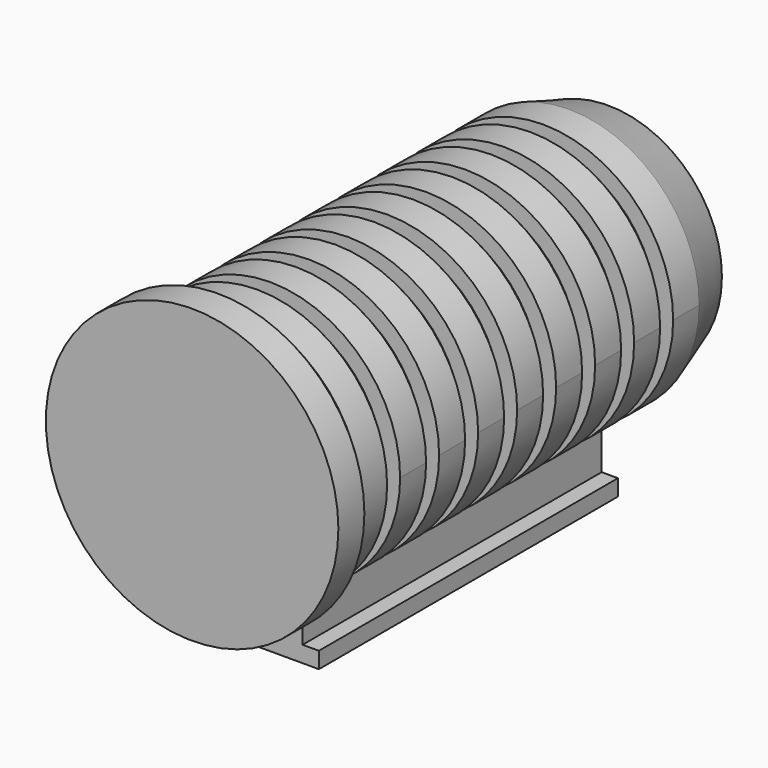
from build123d import *

# Parameters (mm, degrees)
CYLINDER010_R             = 40
CYLINDER010_DEPTH         = 10
CYLINDER008_R             = 40
CYLINDER008_DEPTH         = 10
CYLINDER009_R             = 40
CYLINDER009_DEPTH         = 10
CYLINDER007_R             = 40
CYLINDER007_DEPTH         = 10
CYLINDER006_R             = 40
CYLINDER006_DEPTH         = 10
CYLINDER005_R             = 40
CYLINDER005_DEPTH         = 10
CYLINDER078_R             = 40
CYLINDER078_DEPTH         = 10
CYLINDER081_R             = 40
CYLINDER081_DEPTH         = 10
CYLINDER080_R             = 45
CYLINDER080_DEPTH         = 10
CYLINDER079_R             = 40
CYLINDER079_DEPTH         = 10
BOX066_W                  = 20
BOX066_H                  = 15
BOX066_DEPTH              = 115
BOX067_W                  = 30
BOX067_H                  = 5
BOX067_DEPTH              = 115
FUSION043_PLACEMENT_ANGLE = 90


with BuildPart() as cylinder010:
    # Cylinder010 → Cylinder010 (new body)
    with BuildSketch(Plane.XY):
        Circle(CYLINDER010_R)
    extrude(amount=CYLINDER010_DEPTH)


with BuildPart() as middle007:
    # Cone010 → Cone010 (revolve)
    with BuildSketch(Plane(origin=(0, 0, 10), x_dir=(1, 0, 0), z_dir=(0, -1, 0))):
        Polygon((0, 0), (40, 0), (35, 5), (0, 5), align=None)
    revolve(axis=Axis((0, 0, 10), (0, 0, 1)))

    # Fusion044: union Cylinder010
    add(cylinder010.part)


with BuildPart() as middle007_1:
    # Fusion044 placement: moved
    add(middle007.part.moved(Location((85, -60, -23))))


with BuildPart() as cylinder008:
    # Cylinder008 → Cylinder008 (new body)
    with BuildSketch(Plane.XY):
        Circle(CYLINDER008_R)
    extrude(amount=CYLINDER008_DEPTH)


with BuildPart() as middle006:
    # Cone008 → Cone008 (revolve)
    with BuildSketch(Plane(origin=(0, 0, 10), x_dir=(1, 0, 0), z_dir=(0, -1, 0))):
        Polygon((0, 0), (40, 0), (35, 5), (0, 5), align=None)
    revolve(axis=Axis((0, 0, 10), (0, 0, 1)))

    # Fusion008: union Cylinder008
    add(cylinder008.part)


with BuildPart() as middle006_1:
    # Fusion008 placement: moved
    add(middle006.part.moved(Location((85, -60, -8))))


with BuildPart() as cylinder009:
    # Cylinder009 → Cylinder009 (new body)
    with BuildSketch(Plane.XY):
        Circle(CYLINDER009_R)
    extrude(amount=CYLINDER009_DEPTH)


with BuildPart() as middle002:
    # Cone009 → Cone009 (revolve)
    with BuildSketch(Plane(origin=(0, 0, 10), x_dir=(1, 0, 0), z_dir=(0, -1, 0))):
        Polygon((0, 0), (40, 0), (35, 5), (0, 5), align=None)
    revolve(axis=Axis((0, 0, 10), (0, 0, 1)))

    # Fusion047: union Cylinder009
    add(cylinder009.part)


with BuildPart() as middle002_1:
    # Fusion047 placement: moved
    add(middle002.part.moved(Location((85, -60, 52))))


with BuildPart() as cylinder007:
    # Cylinder007 → Cylinder007 (new body)
    with BuildSketch(Plane.XY):
        Circle(CYLINDER007_R)
    extrude(amount=CYLINDER007_DEPTH)


with BuildPart() as middle005:
    # Cone007 → Cone007 (revolve)
    with BuildSketch(Plane(origin=(0, 0, 10), x_dir=(1, 0, 0), z_dir=(0, -1, 0))):
        Polygon((0, 0), (40, 0), (35, 5), (0, 5), align=None)
    revolve(axis=Axis((0, 0, 10), (0, 0, 1)))

    # Fusion007: union Cylinder007
    add(cylinder007.part)


with BuildPart() as middle005_1:
    # Fusion007 placement: moved
    add(middle005.part.moved(Location((85, -60, 7))))


with BuildPart() as cylinder006:
    # Cylinder006 → Cylinder006 (new body)
    with BuildSketch(Plane.XY):
        Circle(CYLINDER006_R)
    extrude(amount=CYLINDER006_DEPTH)


with BuildPart() as middle004:
    # Cone006 → Cone006 (revolve)
    with BuildSketch(Plane(origin=(0, 0, 10), x_dir=(1, 0, 0), z_dir=(0, -1, 0))):
        Polygon((0, 0), (40, 0), (35, 5), (0, 5), align=None)
    revolve(axis=Axis((0, 0, 10), (0, 0, 1)))

    # Fusion046: union Cylinder006
    add(cylinder006.part)


with BuildPart() as middle004_1:
    # Fusion046 placement: moved
    add(middle004.part.moved(Location((85, -60, 22))))


with BuildPart() as cylinder005:
    # Cylinder005 → Cylinder005 (new body)
    with BuildSketch(Plane.XY):
        Circle(CYLINDER005_R)
    extrude(amount=CYLINDER005_DEPTH)


with BuildPart() as middle003:
    # Cone005 → Cone005 (revolve)
    with BuildSketch(Plane(origin=(0, 0, 10), x_dir=(1, 0, 0), z_dir=(0, -1, 0))):
        Polygon((0, 0), (40, 0), (35, 5), (0, 5), align=None)
    revolve(axis=Axis((0, 0, 10), (0, 0, 1)))

    # Fusion045: union Cylinder005
    add(cylinder005.part)


with BuildPart() as middle003_1:
    # Fusion045 placement: moved
    add(middle003.part.moved(Location((85, -60, 37))))


with BuildPart() as cylinder078:
    # Cylinder078 → Cylinder078 (new body)
    with BuildSketch(Plane.XY):
        Circle(CYLINDER078_R)
    extrude(amount=CYLINDER078_DEPTH)


with BuildPart() as middle008:
    # Cone004 → Cone004 (revolve)
    with BuildSketch(Plane(origin=(0, 0, 10), x_dir=(1, 0, 0), z_dir=(0, -1, 0))):
        Polygon((0, 0), (40, 0), (35, 5), (0, 5), align=None)
    revolve(axis=Axis((0, 0, 10), (0, 0, 1)))

    # Fusion004: union Cylinder078
    add(cylinder078.part)


with BuildPart() as middle008_1:
    # Fusion004 placement: moved
    add(middle008.part.moved(Location((85, -60, -38))))


with BuildPart() as cylinder081:
    # Cylinder081 → Cylinder081 (new body)
    with BuildSketch(Plane.XY):
        Circle(CYLINDER081_R)
    extrude(amount=CYLINDER081_DEPTH)


with BuildPart() as middle001:
    # Cone003 → Cone003 (revolve)
    with BuildSketch(Plane(origin=(0, 0, 10), x_dir=(1, 0, 0), z_dir=(0, -1, 0))):
        Polygon((0, 0), (40, 0), (35, 5), (0, 5), align=None)
    revolve(axis=Axis((0, 0, 10), (0, 0, 1)))

    # Fusion003: union Cylinder081
    add(cylinder081.part)


with BuildPart() as middle001_1:
    # Fusion003 placement: moved
    add(middle001.part.moved(Location((85, -60, 67))))


with BuildPart() as cylinder080:
    # Cylinder080 → Cylinder080 (new body)
    with BuildSketch(Plane.XY):
        Circle(CYLINDER080_R)
    extrude(amount=CYLINDER080_DEPTH)


with BuildPart() as bottom:
    # Cone002 → Cone002 (revolve)
    with BuildSketch(Plane(origin=(0, 0, 10), x_dir=(1, 0, 0), z_dir=(0, -1, 0))):
        Polygon((0, 0), (45, 0), (40, 5), (0, 5), align=None)
    revolve(axis=Axis((0, 0, 10), (0, 0, 1)))

    # Fusion002: union Cylinder080
    add(cylinder080.part)


with BuildPart() as bottom_1:
    # Fusion002 placement: moved
    add(bottom.part.moved(Location((85, -60, -53))))


with BuildPart() as cylinder079:
    # Cylinder079 → Cylinder079 (new body)
    with BuildSketch(Plane.XY):
        Circle(CYLINDER079_R)
    extrude(amount=CYLINDER079_DEPTH)


with BuildPart() as top:
    # Cone → Cone (revolve)
    with BuildSketch(Plane(origin=(0, 0, 10), x_dir=(1, 0, 0), z_dir=(0, -1, 0))):
        Polygon((0, 0), (40, 0), (35, 15), (0, 15), align=None)
    revolve(axis=Axis((0, 0, 10), (0, 0, 1)))

    # Fusion048: union Cylinder079
    add(cylinder079.part)


with BuildPart() as top_1:
    # Fusion048 placement: moved
    add(top.part.moved(Location((85, -60, 82))))


with BuildPart() as holdermain:
    # Box066 → Box066 (new body)
    with BuildSketch(Plane(origin=(75, -20, -23), x_dir=(1, 0, 0), z_dir=(0, 0, 1))):
        with Locations((10, 7.5)):
            Rectangle(BOX066_W, BOX066_H)
    extrude(amount=BOX066_DEPTH)


with BuildPart() as radiation_shield:
    # Box067 → Box067 (new body)
    with BuildSketch(Plane(origin=(70, -5, -23), x_dir=(1, 0, 0), z_dir=(0, 0, 1))):
        with Locations((15, 2.5)):
            Rectangle(BOX067_W, BOX067_H)
    extrude(amount=BOX067_DEPTH)

    # Fusion042: union HolderMain
    add(holdermain.part)

    # Fusion043: union Middle007, Middle006, Middle002, Middle005, Middle004, Middle003, Middle008, Middle001, Bottom, Top
    add(middle007_1.part)
    add(middle006_1.part)
    add(middle002_1.part)
    add(middle005_1.part)
    add(middle004_1.part)
    add(middle003_1.part)
    add(middle008_1.part)
    add(middle001_1.part)
    add(bottom_1.part)
    add(top_1.part)


with BuildPart() as radiation_shield_1:
    # Fusion043 placement: moved
    add(radiation_shield.part.moved(Location((93, -102, 9))).rotate(Axis((93, -102, 9), (-1, 0, 0)), FUSION043_PLACEMENT_ANGLE))


solid = radiation_shield_1.part
